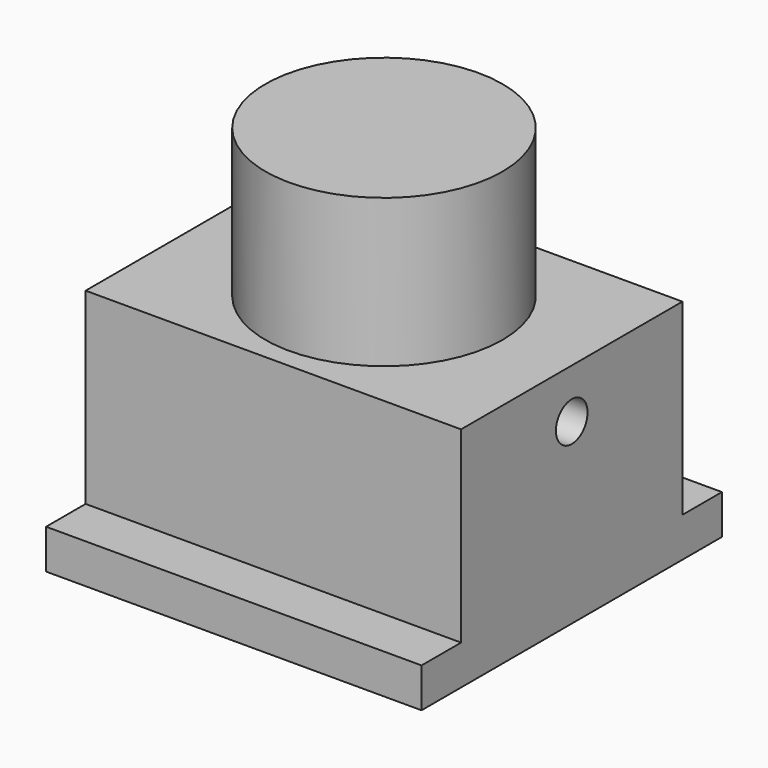
from build123d import *

# Parameters (mm, degrees)
F0_W          = 19
F0_H          = 19
F3_DEPTH      = 2
F4_START      = 2
F2_W          = 19
F2_H          = 14
F4_DEPTH      = 9.5
F5_START      = 11.5
F1_R          = 6
F5_DEPTH      = 7.5
F6_R          = 1
F7_DEPTH      = 25
F7_DEPTH_BACK = 25


with BuildPart() as f3:
    # F0 (on Top) → F3 (new body)
    with BuildSketch(Plane.XY):
        Rectangle(F0_W, F0_H)
    extrude(amount=F3_DEPTH)

    # F2 (on Top) → F4 (join)
    with BuildSketch(Plane.XY.offset(F4_START)):
        Rectangle(F2_W, F2_H)
    extrude(amount=F4_DEPTH)

    # F1 (on Top) → F5 (join)
    with BuildSketch(Plane.XY.offset(F5_START)):
        Circle(F1_R)
    extrude(amount=F5_DEPTH)

    # F6 (on Right) → F7 (cut, two sides)
    with BuildSketch(Plane.YZ) as f7_sk:
        with Locations((0, 9)):
            Circle(F6_R)
    extrude(amount=-F7_DEPTH, mode=Mode.SUBTRACT)
    extrude(f7_sk.sketch, amount=F7_DEPTH_BACK, mode=Mode.SUBTRACT)


solid = f3.part
